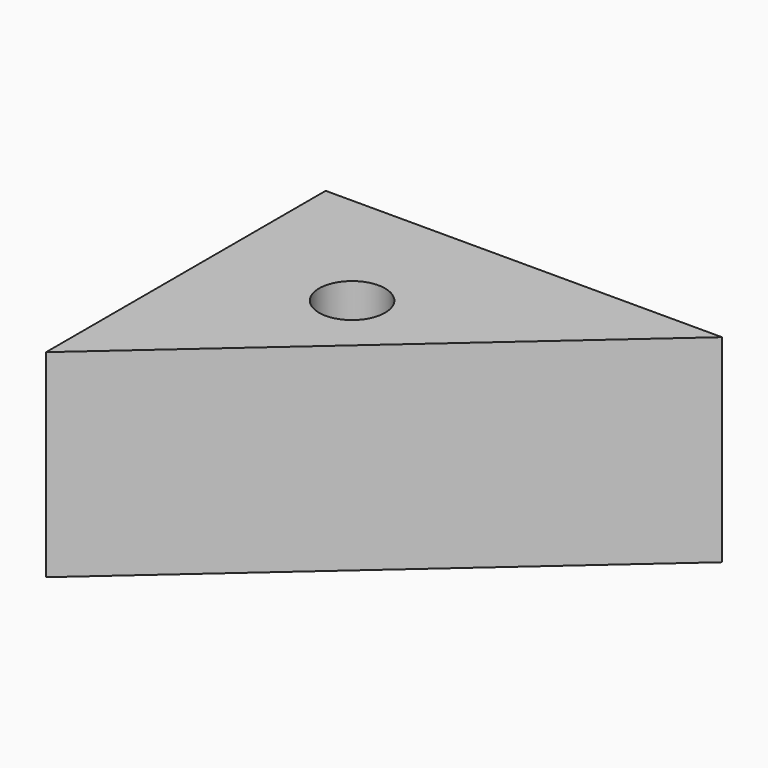
from build123d import *

# Parameters (mm, degrees)
F1_DEPTH       = 38.1
F3_D           = 6.35
F3_CBORE_D     = 12.7
F3_CBORE_DEPTH = 76.2


with BuildPart() as f1:
    # F0 (on Top) → F1 (new body)
    with BuildSketch(Plane.XY):
        Polygon((-35.966398, 32.399466), (-35.966398, -34.802618), (40.233602, 32.399466), align=None)
    extrude(amount=F1_DEPTH)

    # F3 (through all)
    with Locations(Plane.XY.offset(38.1)):
        with Locations((-10.566398, 6.999466)):
            CounterBoreHole(F3_D / 2, F3_CBORE_D / 2, F3_CBORE_DEPTH)


solid = f1.part
